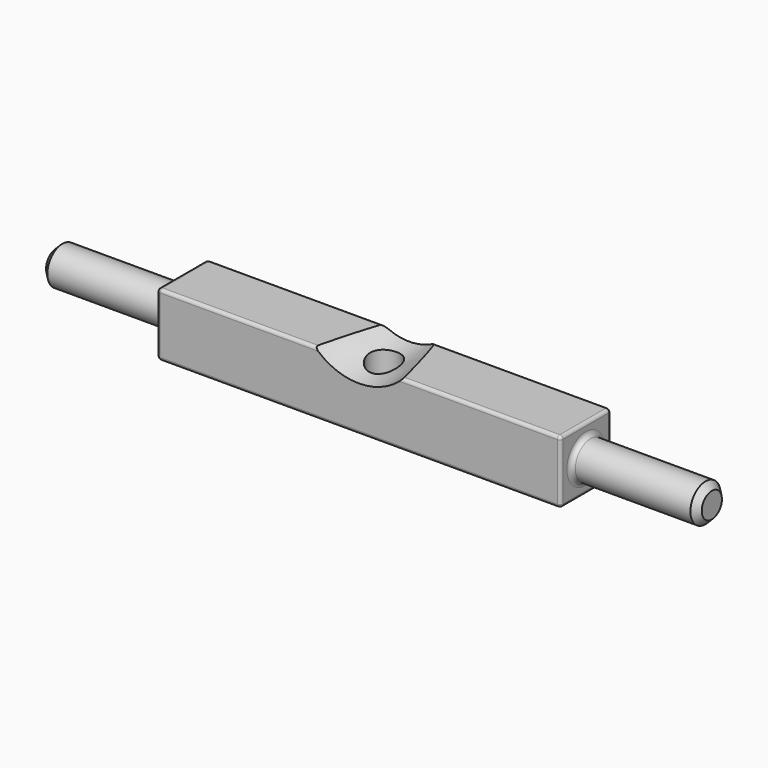
from build123d import *

# Parameters (mm, degrees)
F0_W           = 10
F0_H           = 10
F1_DEPTH       = 32
F2_R           = 3
F3_DEPTH       = 52
F4_R           = 2.5
F5_DEPTH       = 12.5
F6_SIZE        = 1
F7_R           = 0.5
F8_R           = 0.75
F9_R           = 9
F10_DEPTH      = 25
F10_TAPER      = -10
F10_DEPTH_BACK = 25
F10_TAPER_BACK = 10


with BuildPart() as f1:
    # F0 (on Right) → F1 (new body, symmetric)
    with BuildSketch(Plane.YZ):
        Rectangle(F0_W, F0_H)
    extrude(amount=F1_DEPTH, both=True)

    # F2 (on Right) → F3 (join, symmetric)
    with BuildSketch(Plane.YZ):
        Circle(F2_R)
    extrude(amount=F3_DEPTH, both=True)

    # F4 (on Top) → F5 (cut, symmetric)
    with BuildSketch(Plane.XY):
        Circle(F4_R)
    extrude(amount=F5_DEPTH, both=True, mode=Mode.SUBTRACT)

    # F6
    f6_edges = [f1.edges().sort_by_distance(p)[0] for p in [
        (52, -3, 0),
        (-52, -3, 0),
    ]]
    chamfer(f6_edges, length=F6_SIZE)

    # F7
    f7_edges = [f1.edges().sort_by_distance(p)[0] for p in [
        (0, -5, 5),
        (0, 5, 5),
        (0, -5, -5),
        (0, 5, -5),
        (-32, 5, 0),
        (-32, 0, -5),
        (32, 0, -5),
        (-2.5, 0, -5),
        (-32, -5, 0),
        (-32, 0, 5),
        (32, 0, 5),
        (32, -5, 0),
        (32, 5, 0),
    ]]
    fillet(f7_edges, radius=F7_R)

    # F8
    f8_edges = [f1.edges().sort_by_distance(p)[0] for p in [
        (32, -3, 0),
        (-32, -3, 0),
    ]]
    fillet(f8_edges, radius=F8_R)

    # F9 (on Front) → F10 (cut, two sides)
    with BuildSketch(Plane.XZ) as f10_sk:
        with Locations((0, 12)):
            Circle(F9_R)
    extrude(amount=F10_DEPTH, taper=F10_TAPER, mode=Mode.SUBTRACT)
    extrude(f10_sk.sketch, amount=-F10_DEPTH_BACK, taper=F10_TAPER_BACK, mode=Mode.SUBTRACT)


solid = f1.part
